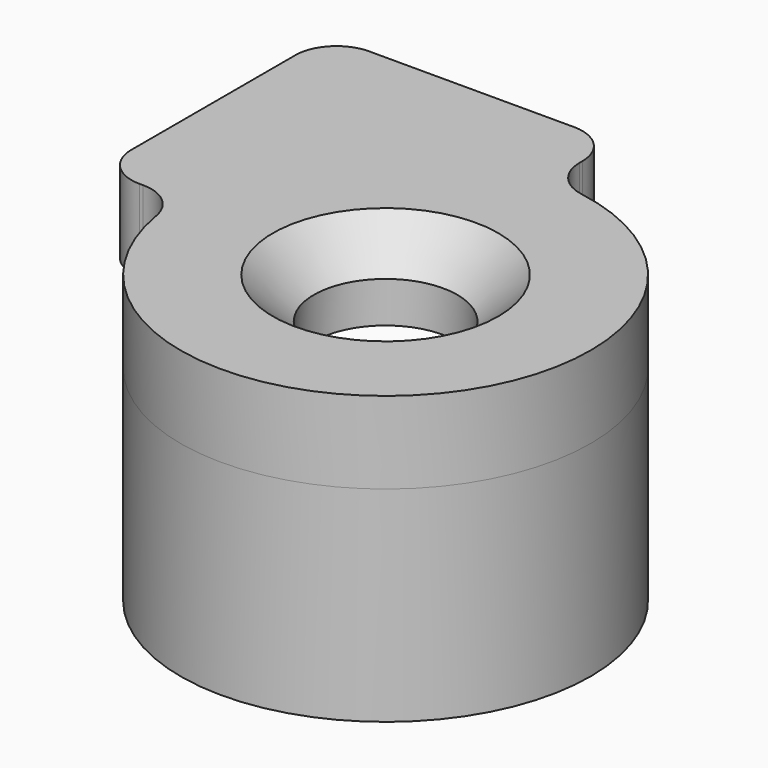
from build123d import *

# Parameters (mm, degrees)
SKETCH_R     = 1.75
PAD_DEPTH    = 2
FILLET_R     = 1
CHAMFER_SIZE = 1
PAD001_DEPTH = 5
FILLET001_R  = 1


with BuildPart() as part:
    # Sketch → Pad (new body)
    with BuildSketch(Plane.XY):
        with BuildLine():
            ThreePointArc((-5, 0), (3.535534, -3.535534), (0, 5))
            Line((0, 7), (0, 5))
            Line((-7, 7), (0, 7))
            Line((-7, 0), (-7, 7))
            Line((-5, 0), (-7, 0))
        make_face()
        Circle(SKETCH_R, mode=Mode.SUBTRACT)
    extrude(amount=PAD_DEPTH)

    # Fillet
    fillet_edges = [part.edges().sort_by_distance(p)[0] for p in [
        (-7, 0, 1),
        (-7, 7, 1),
        (0, 7, 1),
        (0, 5, 1),
        (-5, 0, 1),
    ]]
    fillet(fillet_edges, radius=FILLET_R)

    # Chamfer
    chamfer_edges = [part.edges().sort_by_distance(p)[0] for p in [
        (-1.75, 0, 2),
    ]]
    chamfer(chamfer_edges, length=CHAMFER_SIZE)

    # Sketch001 (on Face14 of Chamfer) → Pad001 (join)
    with BuildSketch(Plane(origin=(0, 0, 0), x_dir=(1, 0, 0), z_dir=(0, 0, -1))):
        with BuildLine():
            ThreePointArc((0.833333, -3.930066), (2.840763, 2.840763), (-3.930066, 0.833333))
            Line((-4.930066, 0.833333), (-3.930066, 0.833333))
            ThreePointArc((0.833333, -4.930066), (3.535534, 3.535534), (-4.930066, 0.833333))
            Line((0.833333, -3.930066), (0.833333, -4.930066))
        make_face()
    extrude(amount=PAD001_DEPTH)

    # Fillet001
    fillet001_edges = [part.edges().sort_by_distance(p)[0] for p in [
        (-4.430066, -0.833333, -5),
        (0.833333, 4.430066, -5),
        (0.833333, 3.930066, -2.5),
        (-3.930066, -0.833333, -2.5),
    ]]
    fillet(fillet001_edges, radius=FILLET001_R)


solid = part.part
